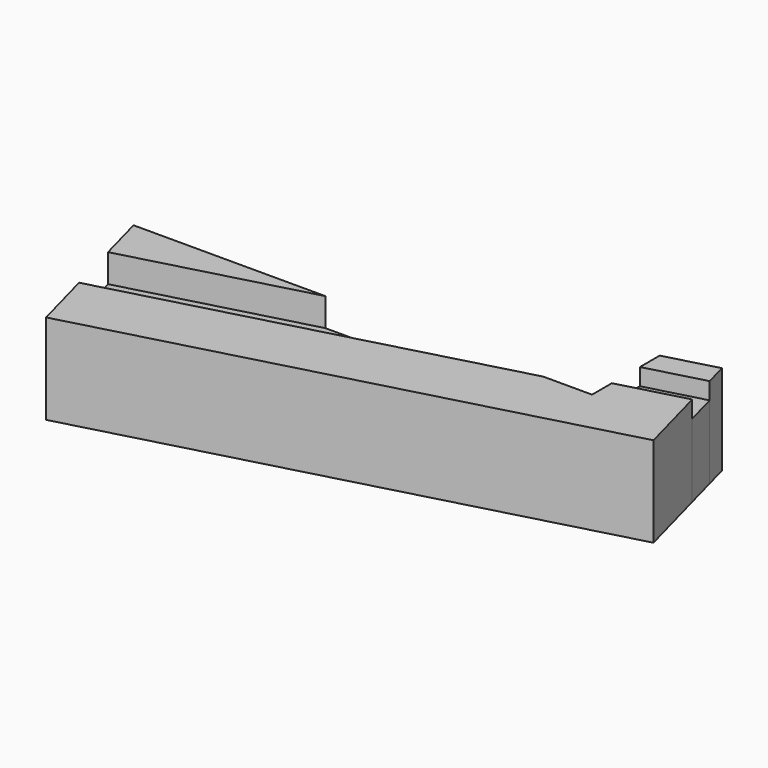
from build123d import *

# Parameters (mm, degrees)
F4_DEPTH = 16
F5_DEPTH = 11
F6_DEPTH = 13


with BuildPart() as f4:
    # F2 (on Top) → F4 (new body)
    with BuildSketch(Plane.XY):
        Polygon((11.7414596618, 0.0402860931), (0, -3.1058285412), (0, -7.5), (-8.671864531, -7.5), (-76.4647760054, -25.6650558821), (-73.5208917648, -36.6517814396), (15.2029819926, -12.8782911169), align=None)
    extrude(amount=F4_DEPTH)



with BuildPart() as f4b:
    # F2 (on Top) → F4, piece 2 (new body)
    with BuildSketch(Plane.XY):
        Polygon((-79.0529664564, -16.0057976192), (-47.3088975825, -7.5), (-81.3320880594, -7.5), align=None)
    extrude(amount=F4_DEPTH)


with BuildPart() as f4c:
    # F2 (on Top) → F4, piece 3 (new body)
    with BuildSketch(Plane.XY):
        Polygon((0, 7.5), (0, 3.1058285412), (10.1885453912, 5.8358410508), (9.0900025265, 9.9356588362), align=None)
    extrude(amount=F4_DEPTH)


with BuildPart() as f4_1:
    add(f4.part)

    add(f4b.part)  # F5 merges F4b
    # F2 (on Top) → F5 (join)
    with BuildSketch(Plane.XY):
        Polygon((-76.4647760054, -25.6650558821), (-8.671864531, -7.5), (-47.3088975825, -7.5), (-79.0529664564, -16.0057976192), align=None)
    extrude(amount=F5_DEPTH)


    add(f4c.part)  # F6 merges F4c
    # F2 (on Top) → F6 (join)
    with BuildSketch(Plane.XY):
        Polygon((0, 3.1058285412), (0, 0), (0, -3.1058285412), (11.7414596618, 0.0402860931), (10.1885453912, 5.8358410508), align=None)
    extrude(amount=F6_DEPTH)


solid = f4_1.part
